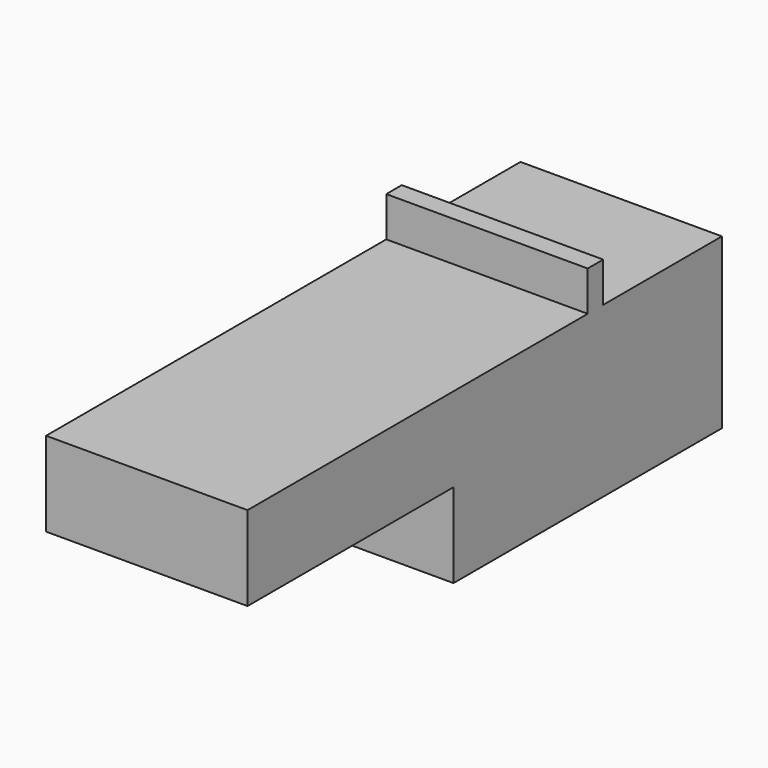
from build123d import *

# Parameters (mm, degrees)
F0_W     = 64.9276450276
F0_H     = 21.2974622846
F0_W_2   = 4.8806965351
F0_H_2   = 10.0571289659
F1_DEPTH = 25.4
F2_DEPTH = 25.4


with BuildPart() as f1:
    # F0 (on Right) → F1 (new body)
    with BuildSketch(Plane.YZ):
        Polygon((42.2991216183, -21.2974622846), (42.2991216183, 21.2974622846), (4.8806965351, 21.2974622846), (0, 21.2974622846), (-42.2991216183, 21.2974622846), (-42.2991216183, 0), (-42.2991216183, -21.2974622846), align=None)
        with Locations((-74.7629441321, 10.6487311423)):
            Rectangle(F0_W, F0_H)
        with Locations((2.4403482676, 26.3260267675)):
            Rectangle(F0_W_2, F0_H_2)
    extrude(amount=F1_DEPTH)

    # F2 (add): a face of the model
    f2_faces = [f1.faces().sort_by_distance(p)[0] for p in [
        (0, -20.5074649501, 3.1809669358),
    ]]
    extrude(f2_faces, amount=F2_DEPTH)


solid = f1.part
